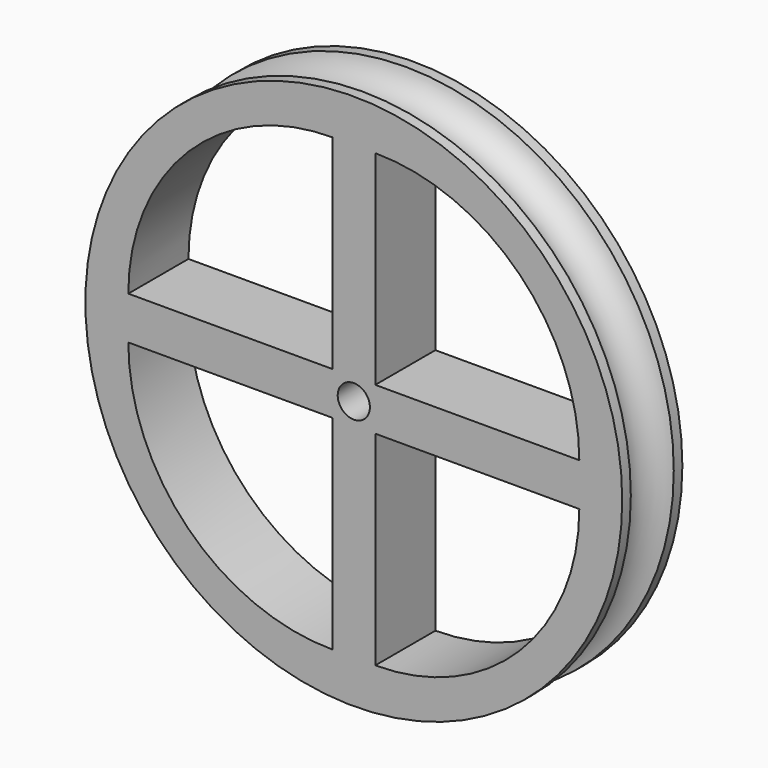
from build123d import *

# Parameters (mm, degrees)
F0_R     = 25
F1_DEPTH = 7
F5_R     = 1.5
F6_DEPTH = 7.001
F8_DEPTH = 7.001


with BuildPart() as f1:
    # F0 (on Front) → F1 (new body)
    with BuildSketch(Plane.XZ):
        Circle(F0_R)
    extrude(amount=F1_DEPTH)

    # F2 (on Right) → F4 (revolve, cut)
    with BuildSketch(Plane.YZ):
        with BuildLine():
            Line((-1, 25), (-6, 25))
            ThreePointArc((-6, 25), (-3.5, 23), (-1, 25))
        make_face()
    revolve(axis=Axis((0, -8.172696, 0), (0, -1, 0)), mode=Mode.SUBTRACT)

    # F5 (on face) → F6 (cut, through all)
    with BuildSketch(Plane(origin=(0, 0, 0), x_dir=(-1, 0, 0), z_dir=(0, 1, 0))):
        Circle(F5_R)
    extrude(amount=-F6_DEPTH, mode=Mode.SUBTRACT)

    # F7 (on face) → F8 (cut, through all)
    with BuildSketch(Plane.XZ.offset(7)):
        with BuildLine():
            Line((-21, 2), (-2, 2))
            Line((-2, 2), (-2, 21))
            ThreePointArc((-2, 21), (-15.435029, 15.435029), (-21, 2))
        make_face()
        with BuildLine():
            Line((2, 21), (2, 2))
            Line((2, 2), (21, 2))
            ThreePointArc((21, 2), (15.435029, 15.435029), (2, 21))
        make_face()
        with BuildLine():
            Line((2, -2), (2, -21))
            ThreePointArc((2, -21), (15.435029, -15.435029), (21, -2))
            Line((21, -2), (2, -2))
        make_face()
        with BuildLine():
            ThreePointArc((-21, -2), (-15.435029, -15.435029), (-2, -21))
            Line((-2, -21), (-2, -2))
            Line((-2, -2), (-21, -2))
        make_face()
    extrude(amount=-F8_DEPTH, mode=Mode.SUBTRACT)


solid = f1.part
